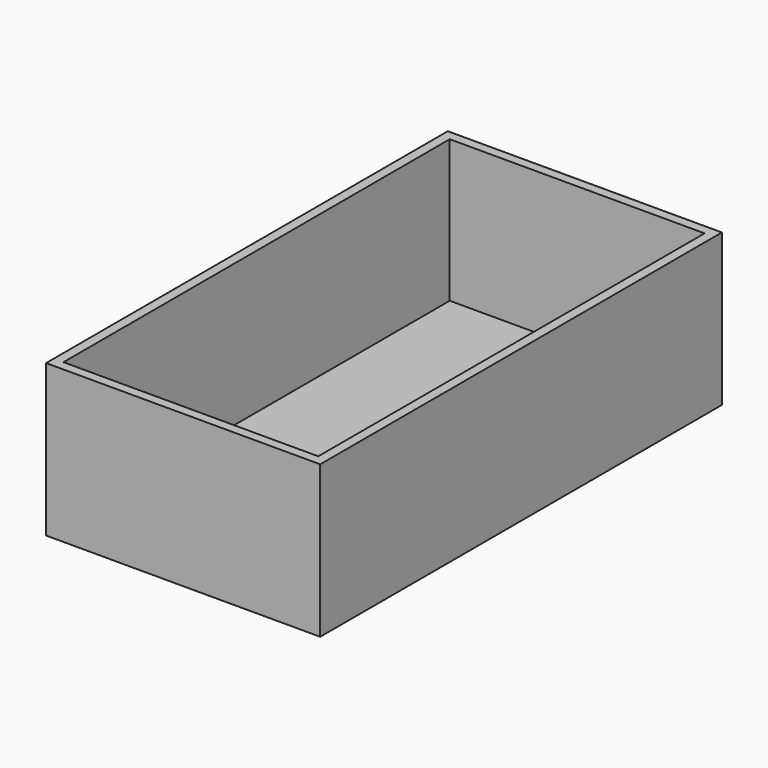
from build123d import *

# Parameters (mm, degrees)
F0_W      = 110.1217
F0_H      = 132.1181
F1_DEPTH  = 39.9542
F2_W      = 132.1181
F2_H      = 38.6842
F3_DEPTH  = 18.9992
F4_W      = 132.1181
F4_H      = 38.6842
F5_DEPTH  = 18.9992
F6_W      = 18.9992
F6_H      = 132.1181
F7_DEPTH  = 1.271
F8_W      = 18.9992
F8_H      = 132.1181
F9_DEPTH  = 1.271
F10_W     = 67.0433
F10_H     = 127.0381
F11_DEPTH = 37.4142


with BuildPart() as f1:
    # F0 (on Top) → F1 (new body)
    with BuildSketch(Plane.XY):
        Rectangle(F0_W, F0_H)
    extrude(amount=F1_DEPTH)

    # F2 (on face) → F3 (cut)
    with BuildSketch(Plane(origin=(-55.06085, 0, 0), x_dir=(0, -1, 0), z_dir=(-1, 0, 0))):
        with Locations((0, 19.3421)):
            Rectangle(F2_W, F2_H)
    extrude(amount=-F3_DEPTH, mode=Mode.SUBTRACT)

    # F4 (on face) → F5 (cut)
    with BuildSketch(Plane.YZ.offset(55.06085)):
        with Locations((0, 19.3421)):
            Rectangle(F4_W, F4_H)
    extrude(amount=-F5_DEPTH, mode=Mode.SUBTRACT)

    # F6 (on face) → F7 (cut, through all)
    with BuildSketch(Plane(origin=(0, 0, 38.6842), x_dir=(1, 0, 0), z_dir=(0, 0, -1))):
        with Locations((-45.56125, 0)):
            Rectangle(F6_W, F6_H)
    extrude(amount=-F7_DEPTH, mode=Mode.SUBTRACT)

    # F8 (on face) → F9 (cut, through all)
    with BuildSketch(Plane(origin=(0, 0, 38.6842), x_dir=(1, 0, 0), z_dir=(0, 0, -1))):
        with Locations((45.56125, 0)):
            Rectangle(F8_W, F8_H)
    extrude(amount=-F9_DEPTH, mode=Mode.SUBTRACT)

    # F10 (on face) → F11 (cut)
    with BuildSketch(Plane.XY.offset(39.9542)):
        Rectangle(F10_W, F10_H)
    extrude(amount=-F11_DEPTH, mode=Mode.SUBTRACT)


solid = f1.part
